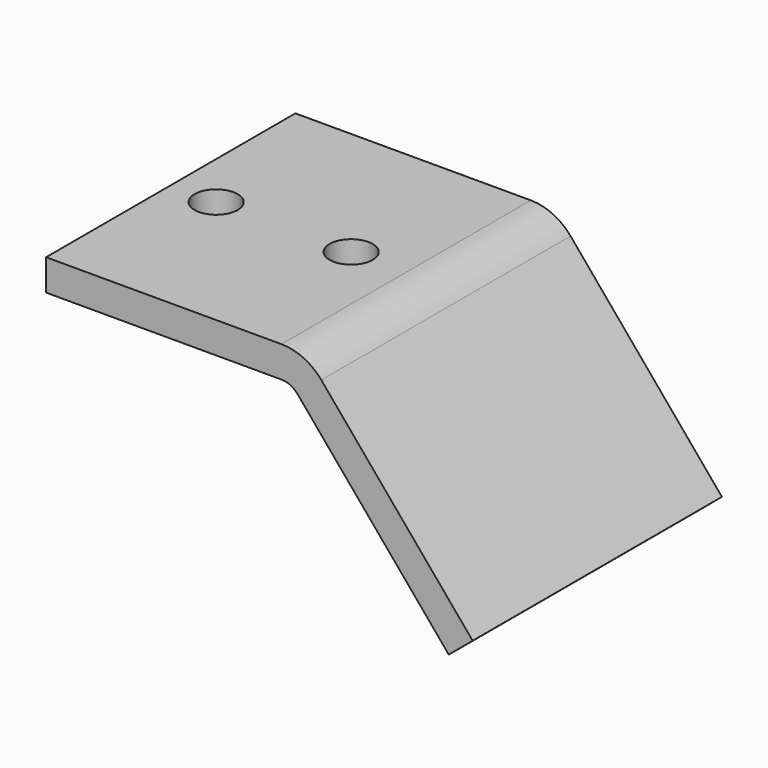
from build123d import *

# Parameters (mm, degrees)
F1_DEPTH = 60
F2_R     = 4.15
F3_DEPTH = 25


with BuildPart() as f1:
    # F0 (on Front) → F1 (new body)
    with BuildSketch(Plane.XZ):
        with BuildLine():
            Line((-4.663077, 32.531645), (-50, 32.531645))
            Line((-50, 32.531645), (-50, 26.531645))
            Line((-50, 26.531645), (-4.663077, 26.531645))
            ThreePointArc((-4.663077, 26.531645), (-2.972604, 26.156877), (-1.598899, 25.102796))
            Line((-1.598899, 25.102796), (27.543114, -9.627302))
            Line((27.543114, -9.627302), (32.13938, -5.770577))
            Line((32.13938, -5.770577), (2.997368, 28.959522))
            ThreePointArc((2.997368, 28.959522), (-0.436894, 31.594723), (-4.663077, 32.531645))
        make_face()
    extrude(amount=F1_DEPTH)

    # F2 (on face) → F3 (cut)
    with BuildSketch(Plane(origin=(0, 0, 26.531645), x_dir=(1, 0, 0), z_dir=(0, 0, -1))):
        with Locations((-41.250553, 30)):
            Circle(F2_R)
        with Locations((-15.255019, 30)):
            Circle(F2_R)
    extrude(amount=-F3_DEPTH, mode=Mode.SUBTRACT)


solid = f1.part
